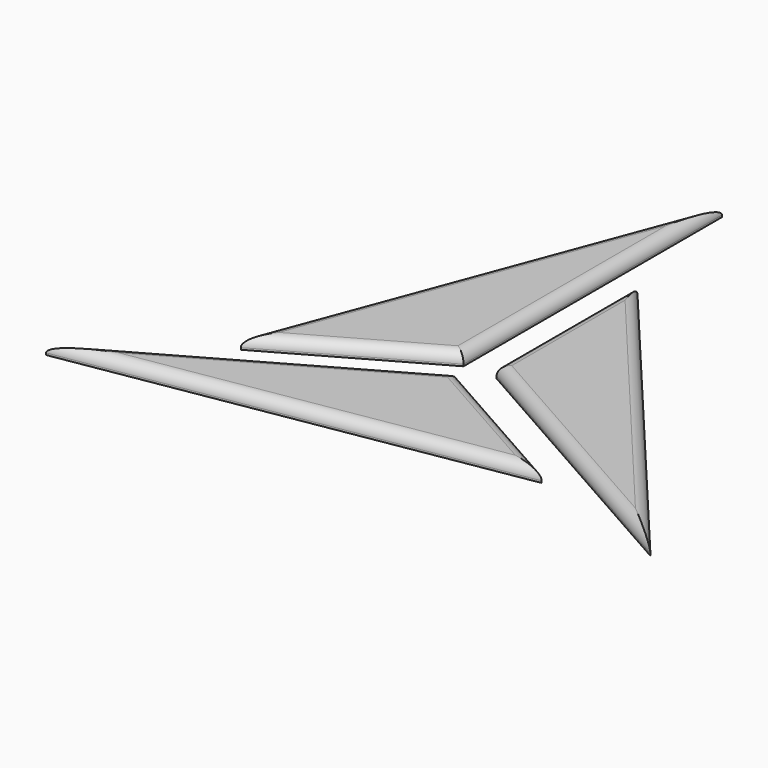
from build123d import *

# Parameters (mm, degrees)
F1_DEPTH = 1.3
F2_R     = 1.1


with BuildPart() as f1:
    # F0 (on Top) → F1 (new body)
    with BuildSketch(Plane.XY):
        Polygon((-24.024894, 55.345223), (-40.268643, 11.935234), (-24.024894, 21.127389), align=None)
        Polygon((9.255313, 4.275105), (-20.524894, 39.791662), (-20.524894, 21.127389), align=None)
        Polygon((-52.252875, 1.132098), (-5.920418, 8.848136), (-22.274894, 18.0963), align=None)
    extrude(amount=F1_DEPTH)

    # F2
    f2_edges = [f1.edges().sort_by_distance(p)[0] for p in [
        (-32.146768, 33.640229, 1.3),
        (-32.146768, 16.531311, 1.3),
        (-24.024894, 38.236306, 1.3),
        (-5.63479, 22.033384, 1.3),
        (-20.524894, 30.459525, 1.3),
        (-5.63479, 12.701247, 1.3),
        (-29.086647, 4.990117, 1.3),
        (-14.097656, 13.472218, 1.3),
        (-37.263884, 9.614199, 1.3),
    ]]
    fillet(f2_edges, radius=F2_R)


solid = f1.part
